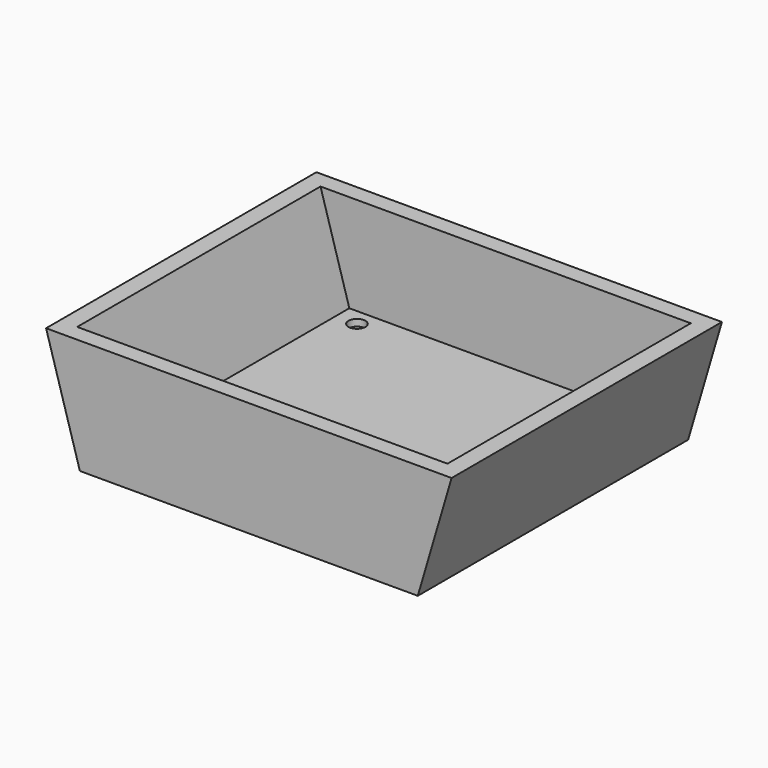
from build123d import *

# Parameters (mm, degrees)
F1_DEPTH      = 50
F1_DEPTH_BACK = 50
F2_T          = -5
F3_R          = 2.5
F4_DEPTH      = 5
F5_R          = 5
F5_R_2        = 2.5
F6_DEPTH      = 3


with BuildPart() as f1:
    # F0 (on Front) → F1 (new body, two sides)
    with BuildSketch(Plane.XZ) as f1_sk:
        Polygon((-50, 0), (50, 0), (60, 33.947153), (-60, 33.947153), align=None)
    extrude(amount=F1_DEPTH)
    extrude(f1_sk.sketch, amount=-F1_DEPTH_BACK)

    # F2
    f2_openings = [f1.faces().sort_by_distance(p)[0] for p in [
        (0, 0, 33.947153),
    ]]
    offset(amount=F2_T, openings=f2_openings)

    # F3 (on face) → F4 (cut, through all)
    with BuildSketch(Plane.XY.offset(5)):
        with Locations((-40, 40)):
            Circle(F3_R)
        with Locations((-40, -40)):
            Circle(F3_R)
        with Locations((40, -40)):
            Circle(F3_R)
        with Locations((40, 40)):
            Circle(F3_R)
    extrude(amount=-F4_DEPTH, mode=Mode.SUBTRACT)

    # F5 (on face) → F6 (cut)
    with BuildSketch(Plane(origin=(0, 0, 0), x_dir=(1, 0, 0), z_dir=(0, 0, -1))):
        with Locations((-40, 40)):
            Circle(F5_R)
        with Locations((-40, 40)):
            Circle(F5_R_2, mode=Mode.SUBTRACT)
        with Locations((40, 40)):
            Circle(F5_R)
        with Locations((40, 40)):
            Circle(F5_R_2, mode=Mode.SUBTRACT)
        with Locations((40, -40)):
            Circle(F5_R)
        with Locations((40, -40)):
            Circle(F5_R_2, mode=Mode.SUBTRACT)
        with Locations((-40, -40)):
            Circle(F5_R)
        with Locations((-40, -40)):
            Circle(F5_R_2, mode=Mode.SUBTRACT)
    extrude(amount=-F6_DEPTH, mode=Mode.SUBTRACT)


solid = f1.part
